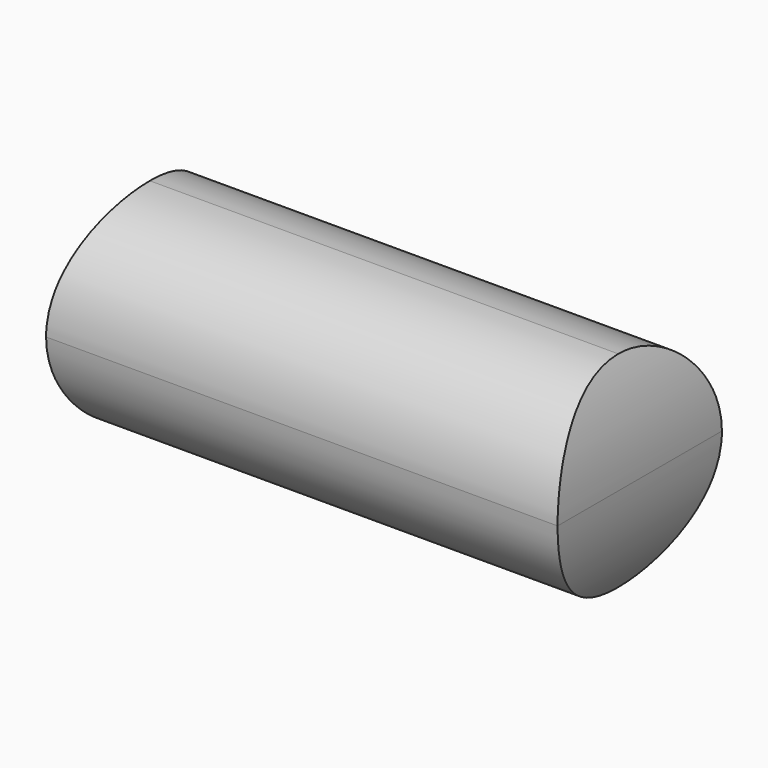
from build123d import *

# Parameters (mm, degrees)
F0_W     = 24.9
F0_H     = 10
F1_DEPTH = 10
F4_DEPTH = 24.901
F5_DEPTH = 10.001


with BuildPart() as f1:
    # F0 (on Front) → F1 (new body)
    with BuildSketch(Plane.XZ):
        Rectangle(F0_W, F0_H)
    extrude(amount=F1_DEPTH)

    # F3 (on face) → F4 (cut, through all)
    with BuildSketch(Plane(origin=(-12.45, 0, 0), x_dir=(0, -1, 0), z_dir=(-1, 0, 0))):
        with BuildLine():
            ThreePointArc((0, 0), (1.4644660941, 3.5355339059), (5, 5))
            Line((5, 5), (0, 5))
            Line((0, 5), (0, 0))
        make_face()
        with BuildLine():
            ThreePointArc((5, 5), (8.5355339059, 3.5355339059), (10, 0))
            Line((10, 0), (10, 5))
            Line((10, 5), (5, 5))
        make_face()
        with BuildLine():
            Line((0, -5), (5, -5))
            ThreePointArc((5, -5), (1.4644660941, -3.5355339059), (0, 0))
            Line((0, 0), (0, -5))
        make_face()
        with BuildLine():
            Line((10, -5), (10, 0))
            ThreePointArc((10, 0), (8.5355339059, -3.5355339059), (5, -5))
            Line((5, -5), (10, -5))
        make_face()
    extrude(amount=-F4_DEPTH, mode=Mode.SUBTRACT)

    # F2 (on face) → F5 (cut, through all)
    with BuildSketch(Plane.XZ.offset(10)):
        with BuildLine():
            ThreePointArc((-12.45, 0), (-12.1851488571, 2.5543389223), (-11.4018638827, 5))
            Line((-11.4018638827, 5), (-12.45, 5))
            Line((-12.45, 5), (-12.45, 0))
        make_face()
        with BuildLine():
            Line((-12.45, -5), (-11.4018638827, -5))
            ThreePointArc((-11.4018638827, -5), (-12.1851488571, -2.5543389223), (-12.45, 0))
            Line((-12.45, 0), (-12.45, -5))
        make_face()
        with BuildLine():
            ThreePointArc((11.4018638827, 5), (12.1851488571, 2.5543389223), (12.45, 0))
            Line((12.45, 0), (12.45, 5))
            Line((12.45, 5), (11.4018638827, 5))
        make_face()
        with BuildLine():
            Line((12.45, -5), (12.45, 0))
            ThreePointArc((12.45, 0), (12.1851488571, -2.5543389223), (11.4018638827, -5))
            Line((11.4018638827, -5), (12.45, -5))
        make_face()
    extrude(amount=-F5_DEPTH, mode=Mode.SUBTRACT)


solid = f1.part
